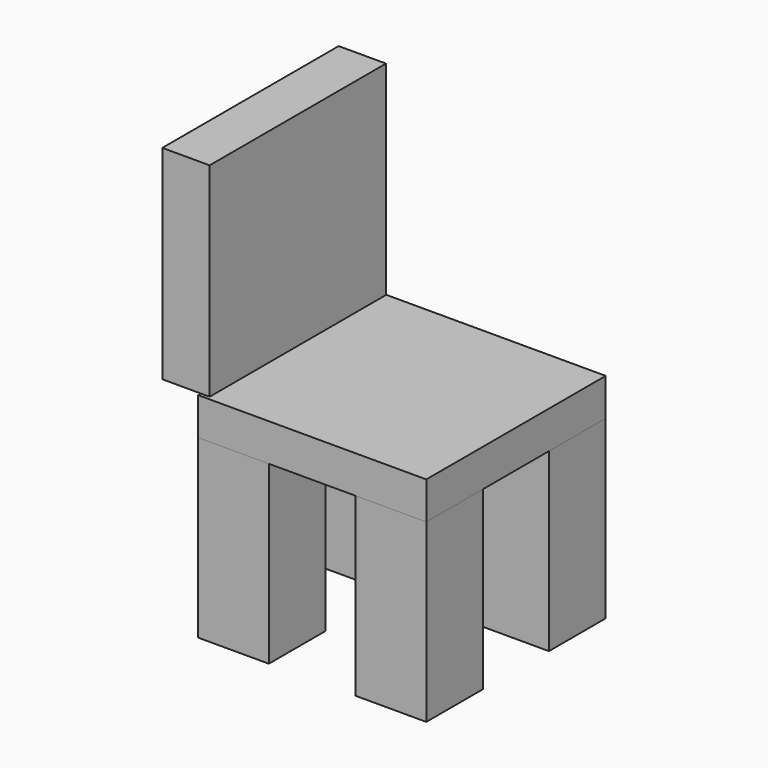
from build123d import *

# Parameters (mm, degrees)
F0_W     = 10
F0_H     = 10
F1_DEPTH = 25
F2_W     = 32.298388
F2_H     = 31.754034
F3_DEPTH = 5.3
F4_W     = 31.209677
F4_H     = 28.850806
F5_DEPTH = 6.7
F6_T     = -5
F7_T     = -5


with BuildPart() as f1:
    # F0 (on Top) → F1 (new body)
    with BuildSketch(Plane.XY):
        with Locations((10, 10)):
            Rectangle(F0_W, F0_H)
        with Locations((10, 31.7)):
            Rectangle(F0_W, F0_H)
        with Locations((32.3, 10)):
            Rectangle(F0_W, F0_H)
        with Locations((32.3, 31.7)):
            Rectangle(F0_W, F0_H)
    extrude(amount=-F1_DEPTH)


with BuildPart() as f3:
    # F2 (on Top) → F3 (new body)
    with BuildSketch(Plane.XY):
        with Locations((21.22984, 20.776211)):
            Rectangle(F2_W, F2_H)
    extrude(amount=F3_DEPTH)

    # F7
    f7_openings = [f3.faces().sort_by_distance(p)[0] for p in [
        (21.22984, 20.776211, 0),
    ]]
    offset(amount=F7_T, openings=f7_openings)


with BuildPart() as f5:
    # F4 (on Right) → F5 (new body)
    with BuildSketch(Plane.YZ):
        with Locations((20.504031, 20.050404)):
            Rectangle(F4_W, F4_H)
    extrude(amount=F5_DEPTH)

    # F6
    f6_openings = [f5.faces().sort_by_distance(p)[0] for p in [
        (0, 20.504031, 20.050404),
    ]]
    offset(amount=F6_T, openings=f6_openings)


solid = Compound([f1.part, f3.part, f5.part])
